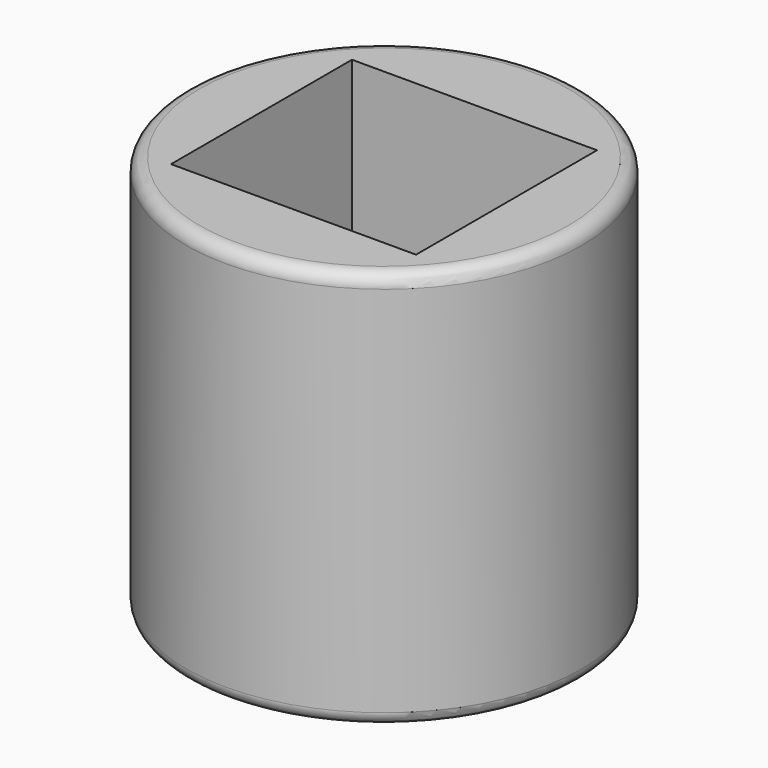
from build123d import *

# Parameters (mm, degrees)
F0_R     = 75.547146
F1_DEPTH = 152.4
F2_R     = 5.08
F3_W     = 93.511396
F3_H     = 86.312428
F4_DEPTH = 152.4
F5_R     = 5.08


with BuildPart() as f1:
    # F0 (on Top) → F1 (new body)
    with BuildSketch(Plane.XY):
        Circle(F0_R)
    extrude(amount=F1_DEPTH)

    # F2
    f2_edges = [f1.edges().sort_by_distance(p)[0] for p in [
        (-75.547146, 0, 152.4),
    ]]
    fillet(f2_edges, radius=F2_R)

    # F3 (on face) → F4 (cut)
    with BuildSketch(Plane.XY.offset(152.4)):
        Rectangle(F3_W, F3_H)
    extrude(amount=-F4_DEPTH, mode=Mode.SUBTRACT)

    # F5
    f5_edges = [f1.edges().sort_by_distance(p)[0] for p in [
        (-75.547146, 0, 0),
    ]]
    fillet(f5_edges, radius=F5_R)


solid = f1.part
